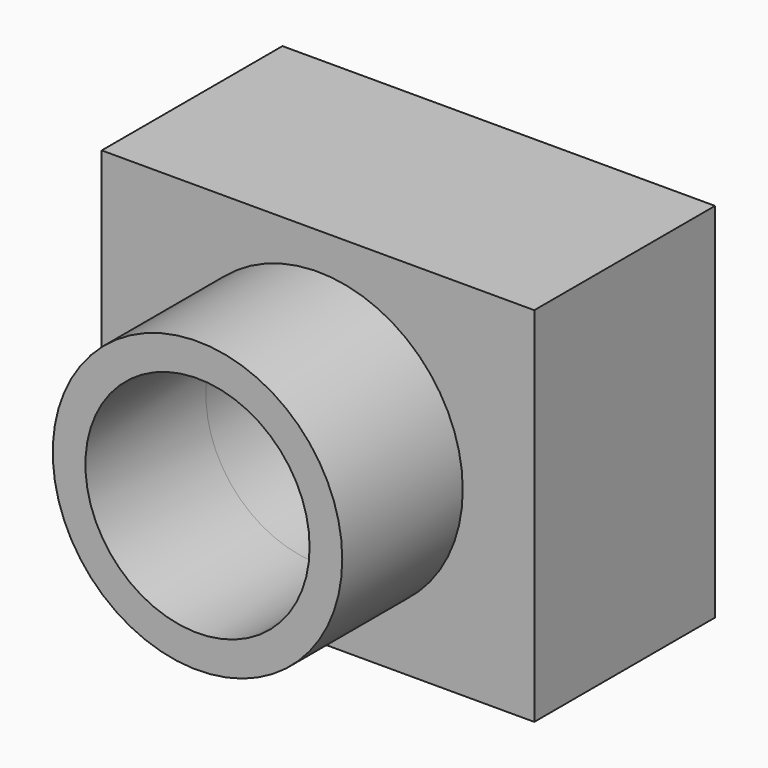
from build123d import *

# Parameters (mm, degrees)
F0_W     = 72.9460567236
F0_H     = 61.1247569323
F1_DEPTH = 38.1
F2_R     = 18.9050418051
F3_DEPTH = 50.8
F4_R     = 24.4111270382
F4_R_2   = 18.9050418051
F5_DEPTH = 25.4


with BuildPart() as f1:
    # F0 (on Front) → F1 (new body)
    with BuildSketch(Plane.XZ):
        Rectangle(F0_W, F0_H)
    extrude(amount=F1_DEPTH)

    # F2 (on face) → F3 (cut)
    with BuildSketch(Plane.XZ.offset(38.1)):
        Circle(F2_R)
    extrude(amount=-F3_DEPTH, mode=Mode.SUBTRACT)

    # F4 (on face) → F5 (join)
    with BuildSketch(Plane.XZ.offset(38.1)):
        Circle(F4_R)
        Circle(F4_R_2, mode=Mode.SUBTRACT)
    extrude(amount=F5_DEPTH)


solid = f1.part
